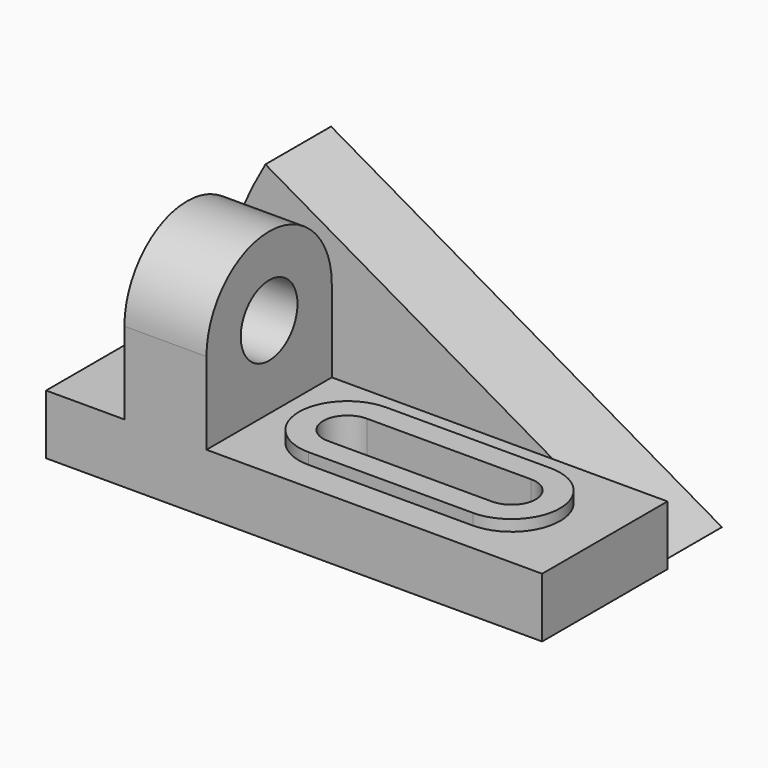
from build123d import *

# Parameters (mm, degrees)
F1_DEPTH = 42
F2_R     = 9.5
F3_DEPTH = 43.001
F5_DEPTH = 3
F7_DEPTH = 19.001
F9_DEPTH = 22


with BuildPart() as f1:
    # F0 (on Front) → F1 (new body)
    with BuildSketch(Plane.XZ):
        Polygon((0, 16), (0, 0), (133, 0), (133, 16), (43, 16), (43, 86), (21, 86), (21, 16), align=None)
    extrude(amount=F1_DEPTH)

    # F2 (on face) → F3 (cut, through all)
    with BuildSketch(Plane.YZ.offset(43)):
        with Locations((-21, 38)):
            Circle(F2_R)
        with BuildLine():
            Line((-42, 86), (-42, 38))
            ThreePointArc((-42, 38), (-21, 59), (0, 38))
            Line((0, 38), (0, 86))
            Line((0, 86), (-42, 86))
        make_face()
    extrude(amount=-F3_DEPTH, mode=Mode.SUBTRACT)

    # F4 (on face) → F5 (join)
    with BuildSketch(Plane.XY.offset(16)):
        with BuildLine():
            Line((108, -8), (64, -8))
            ThreePointArc((64, -8), (51, -21), (64, -34))
            Line((64, -34), (108, -34))
            ThreePointArc((108, -34), (121, -21), (108, -8))
        make_face()
    extrude(amount=F5_DEPTH)

    # F6 (on face) → F7 (cut, through all)
    with BuildSketch(Plane.XY.offset(19)):
        with BuildLine():
            Line((108, -14.5), (64, -14.5))
            ThreePointArc((64, -14.5), (57.5, -21), (64, -27.5))
            Line((64, -27.5), (108, -27.5))
            ThreePointArc((108, -27.5), (114.5, -21), (108, -14.5))
        make_face()
    extrude(amount=-F7_DEPTH, mode=Mode.SUBTRACT)

    # F8 (on face) → F9 (join)
    with BuildSketch(Plane(origin=(0, 0, 0), x_dir=(-1, 0, 0), z_dir=(0, 1, 0))):
        with BuildLine():
            Line((-25.210926, 60.5), (-130, 0))
            Line((-130, 0), (-9, 0))
            ThreePointArc((-9, 0), (-13.122975, 31.317104), (-25.210926, 60.5))
        make_face()
    extrude(amount=F9_DEPTH)


solid = f1.part
